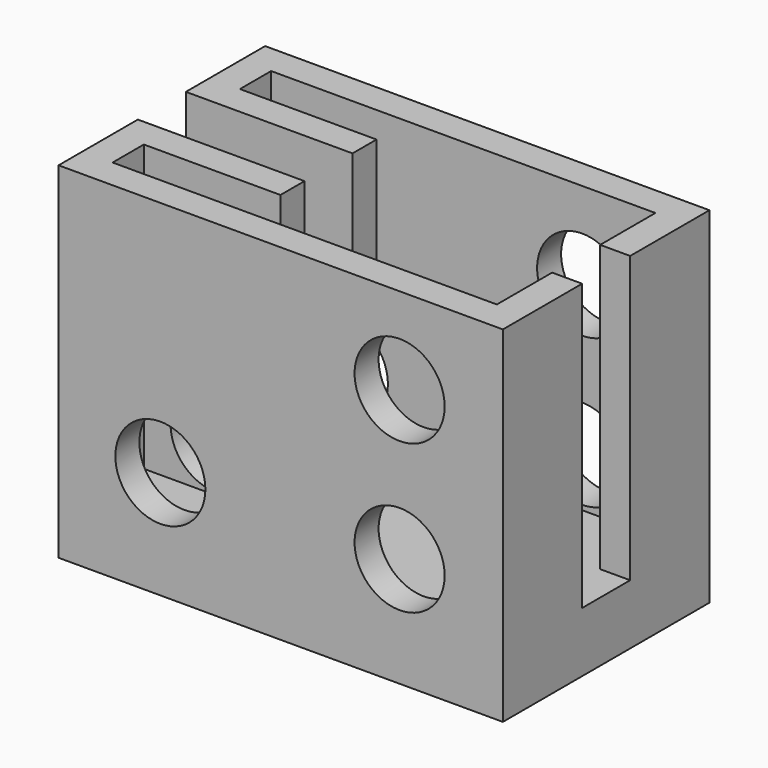
from build123d import *

# Parameters (mm, degrees)
F1_DEPTH = 5.755
F2_R     = 0.75
F3_DEPTH = 25
F4_DEPTH = 1


with BuildPart() as f1:
    # F0 (on Top) → F1 (new body)
    with BuildSketch(Plane.XY):
        Polygon((-3.7, -2.15), (3.7, -2.15), (3.7, -0.5), (3.2, -0.5), (3.2, -1.65), (-3.2, -1.65), (-3.2, -1), (-0.924631, -1), (-0.924631, -0.5), (-3.7, -0.5), align=None)
        Polygon((3.2, 0.5), (3.7, 0.5), (3.7, 2.15), (-3.7, 2.15), (-3.7, 0.5), (-0.924631, 0.5), (-0.924631, 1), (-3.2, 1), (-3.2, 1.65), (3.2, 1.65), align=None)
    extrude(amount=F1_DEPTH)

    # F2 (on face) → F3 (cut)
    with BuildSketch(Plane.XZ.offset(2.15)):
        with Locations((1.980075, 4.308214)):
            Circle(F2_R)
        with Locations((1.980075, 1.829074)):
            Circle(F2_R)
        with Locations((-2.004864, 1.798502)):
            Circle(F2_R)
    extrude(amount=-F3_DEPTH, mode=Mode.SUBTRACT)

    # F0 (on Top) → F4 (join)
    with BuildSketch(Plane.XY):
        Polygon((3.2, -0.5), (3.7, -0.5), (3.7, 0.5), (3.2, 0.5), (3.2, 1.65), (-3.2, 1.65), (-3.2, 1), (-0.924631, 1), (-0.924631, 0.5), (-0.924631, -0.5), (-0.924631, -1), (-3.2, -1), (-3.2, -1.65), (3.2, -1.65), align=None)
    extrude(amount=F4_DEPTH)


solid = f1.part
